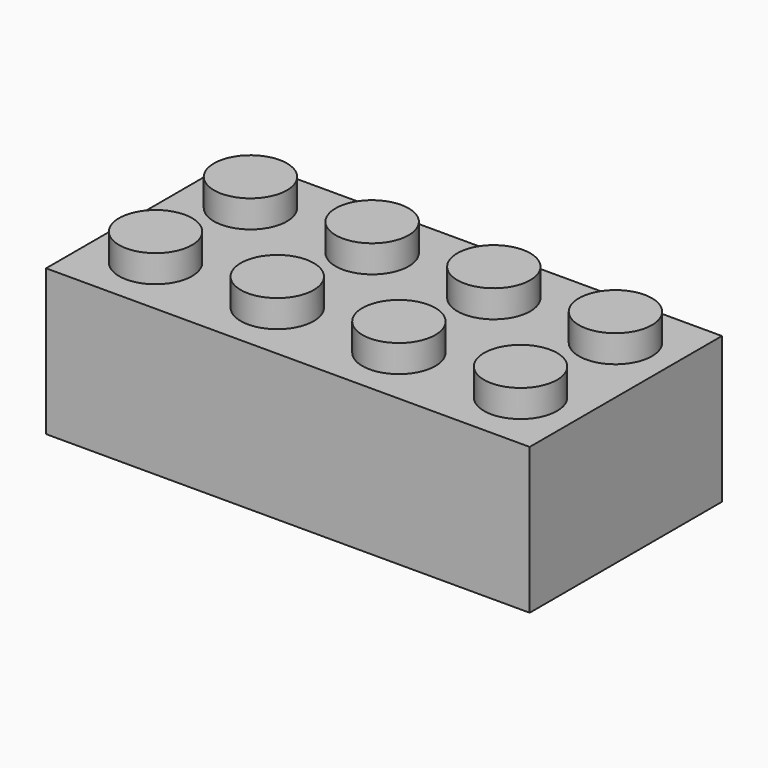
from build123d import *

# Parameters (mm, degrees)
SKETCH_W               = 47.7
SKETCH_H               = 23.7
PAD_DEPTH              = 14.4
SKETCH001_W            = 44.1
SKETCH001_H            = 20.1
POCKET_DEPTH           = 12.6
SKETCH002_R            = 3.6
PAD001_DEPTH           = 2.7
LINEARPATTERN_COUNT    = 4
LINEARPATTERN_PITCH    = 12
SKETCH003_R            = 4.8825
PAD002_DEPTH           = 12.6
LINEARPATTERN001_COUNT = 3
LINEARPATTERN001_PITCH = 12
SKETCH006_R            = 3.6
POCKET001_DEPTH        = 12.6
LINEARPATTERN002_COUNT = 3
LINEARPATTERN002_PITCH = 12


with BuildPart() as part:
    # Sketch → Pad (new body)
    with BuildSketch(Plane.XY):
        with Locations((23.85, 11.85)):
            Rectangle(SKETCH_W, SKETCH_H)
    extrude(amount=PAD_DEPTH)

    # Sketch001 (on Face5 of Pad) → Pocket (cut)
    with BuildSketch(Plane(origin=(0, 0, 0), x_dir=(1, 0, 0), z_dir=(0, 0, -1))):
        with Locations((23.85, -11.85)):
            Rectangle(SKETCH001_W, SKETCH001_H)
    extrude(amount=-POCKET_DEPTH, mode=Mode.SUBTRACT)

    # Sketch002 (on Face5 of Pocket) → Pad001 (join)
    with BuildSketch(Plane.XY.offset(14.4)):
        with Locations((6, 17.7)):
            Circle(SKETCH002_R)
        with Locations((6, 6)):
            Circle(SKETCH002_R)
    pad001 = extrude(amount=PAD001_DEPTH)

    # LinearPattern: Pad001 ×4
    with Locations(*[(i * LINEARPATTERN_PITCH, 0, 0) for i in range(1, LINEARPATTERN_COUNT)]):
        add(pad001)

    # Sketch003 (on Face19 of LinearPattern) → Pad002 (join)
    with BuildSketch(Plane(origin=(0, 0, 12.6), x_dir=(1, 0, 0), z_dir=(0, 0, -1))):
        with Locations((10.2, -10.2)):
            Circle(SKETCH003_R)
    pad002 = extrude(amount=PAD002_DEPTH)

    # LinearPattern001: Pad002 ×3
    with Locations(*[(i * LINEARPATTERN001_PITCH, 0, 0) for i in range(1, LINEARPATTERN001_COUNT)]):
        add(pad002)

    # Sketch006 (on Face32 of LinearPattern001) → Pocket001 (cut)
    with BuildSketch(Plane(origin=(0, 0, 0), x_dir=(1, 0, 0), z_dir=(0, 0, -1))):
        with Locations((10.160013, -10.051676)):
            Circle(SKETCH006_R)
    pocket001 = extrude(amount=-POCKET001_DEPTH, mode=Mode.SUBTRACT)

    # LinearPattern002: Pocket001 ×3
    with Locations(*[(i * LINEARPATTERN002_PITCH, 0, 0) for i in range(1, LINEARPATTERN002_COUNT)]):
        add(pocket001, mode=Mode.SUBTRACT)


solid = part.part
